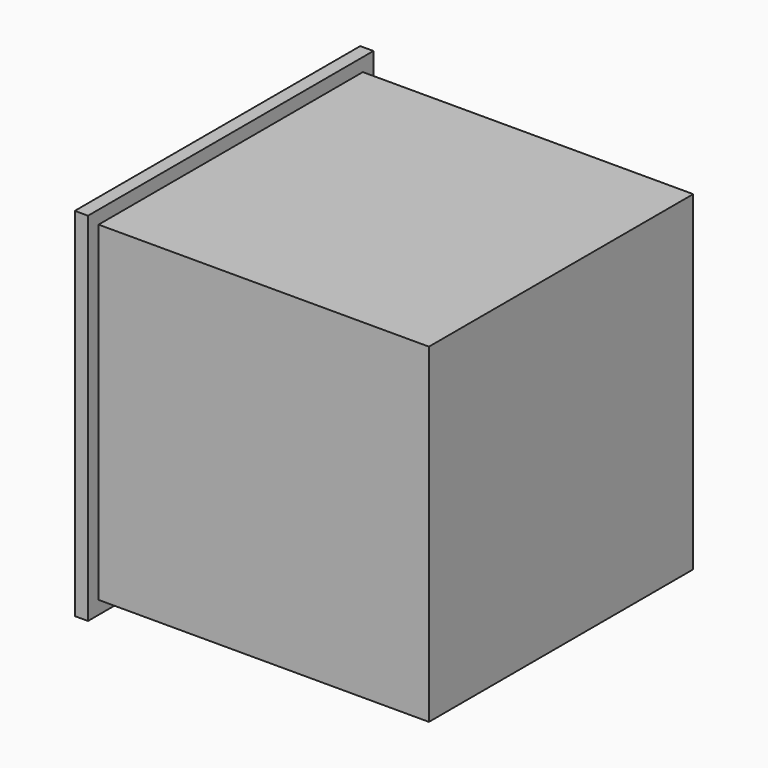
from build123d import *

# Parameters (mm, degrees)
BOX002_W     = 48
BOX002_H     = 46
BOX002_DEPTH = 46
BOX_W        = 50
BOX_H        = 50
BOX_DEPTH    = 50
BOX001_W     = 2
BOX001_H     = 54
BOX001_DEPTH = 54


with BuildPart() as cube002:
    # Box002 → Box002 (new body)
    with BuildSketch(Plane(origin=(-2, 2, 2), x_dir=(1, 0, 0), z_dir=(0, 0, 1))):
        with Locations((24, 23)):
            Rectangle(BOX002_W, BOX002_H)
    extrude(amount=BOX002_DEPTH)


with BuildPart() as cube:
    # Box → Box (new body)
    with BuildSketch(Plane.XY):
        with Locations((25, 25)):
            Rectangle(BOX_W, BOX_H)
    extrude(amount=BOX_DEPTH)


with BuildPart() as cut:
    # Box001 → Box001 (new body)
    with BuildSketch(Plane(origin=(-2, -2, -2), x_dir=(1, 0, 0), z_dir=(0, 0, 1))):
        with Locations((1, 27)):
            Rectangle(BOX001_W, BOX001_H)
    extrude(amount=BOX001_DEPTH)

    # Fusion: union Cube
    add(cube.part)

    # Cut: cut Cube002
    add(cube002.part, mode=Mode.SUBTRACT)


solid = cut.part
